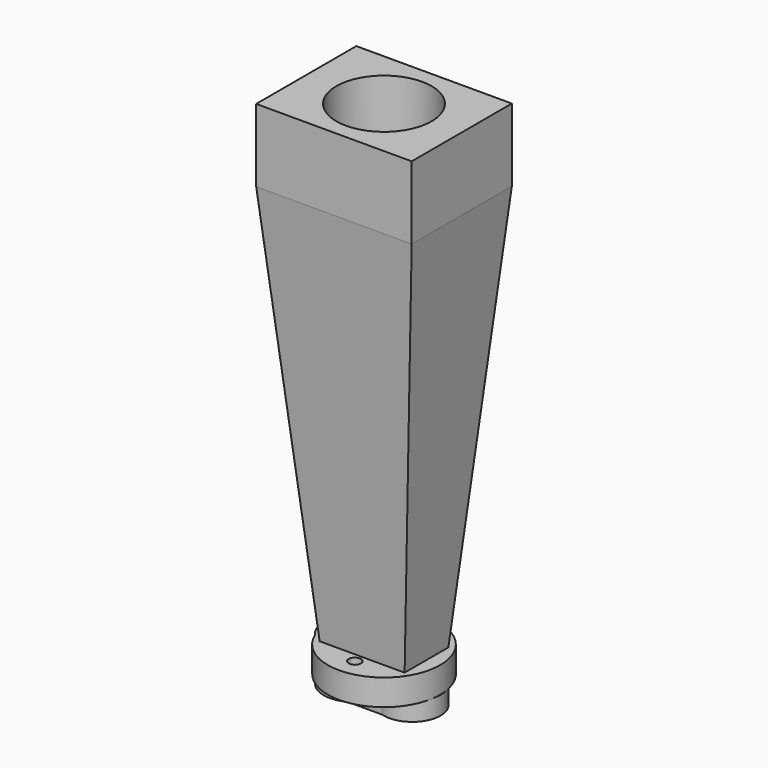
from build123d import *

# Parameters (mm, degrees)
F1_DEPTH  = 3.81
F3_DEPTH  = 5.461
F5_R      = 1.27
F6_DEPTH  = 9.272
F7_W      = 17.78
F7_H      = 11.43
F8_DEPTH  = 84.3534
F8_TAPER  = -5
F9_R      = 4.088765
F10_DEPTH = 93.6254001
F10_TAPER = -2.9356734464
F11_W     = 32.5399324597
F11_H     = 26.1899324597
F12_DEPTH = 15.24
F14_D     = 19.939
F14_DEPTH = 20.066
F14_TIP   = 5.9902799414


with BuildPart() as f1:
    # F0 (on Top) → F1 (new body)
    with BuildSketch(Plane.XY):
        with BuildLine():
            Line((4.1806183802, 5.7049052394), (-3.0799473447, 5.7049052394))
            ThreePointArc((-3.0799473447, 5.7049052394), (-12.6238, 0), (-3.0799473447, -5.7049052394))
            Line((-3.0799473447, -5.7049052394), (4.1806183802, -5.7049052394))
            ThreePointArc((4.1806183802, -5.7049052394), (11.8491, 0), (4.1806183802, 5.7049052394))
        make_face()
    extrude(amount=-F1_DEPTH)

    # F2 (on Top) → F3 (join)
    with BuildSketch(Plane.XY):
        with BuildLine():
            ThreePointArc((-10.8865895661, 4.4142863374), (-12.6238, 0), (-10.8865895661, -4.4142863374))
            ThreePointArc((-10.8865895661, -4.4142863374), (11.7475, 0), (-10.8865895661, 4.4142863374))
        make_face()
    extrude(amount=F3_DEPTH)

    # F5 (on face) → F6 (cut, through all)
    with BuildSketch(Plane.XY.offset(5.461)):
        with Locations((0, -7.62)):
            Circle(F5_R)
        with Locations((0, 7.62)):
            Circle(F5_R)
    extrude(amount=-F6_DEPTH, mode=Mode.SUBTRACT)

    # F7 (on face) → F8 (join)
    with BuildSketch(Plane.XY.offset(5.461)):
        Rectangle(F7_W, F7_H)
    extrude(amount=F8_DEPTH, taper=F8_TAPER)

    # F9 (on face) → F10 (cut, through all)
    with BuildSketch(Plane(origin=(0, 0, -3.81), x_dir=(1, 0, 0), z_dir=(0, 0, -1))):
        Circle(F9_R)
    extrude(amount=-F10_DEPTH, taper=F10_TAPER, mode=Mode.SUBTRACT)

    # F11 (on face) → F12 (join)
    with BuildSketch(Plane.XY.offset(89.8144)):
        Rectangle(F11_W, F11_H)
    extrude(amount=F12_DEPTH)

    # F14
    with Locations(Plane.XY.offset(105.0544)):
        with Locations((0, 0)):
            Hole(F14_D / 2, depth=F14_DEPTH)
            with Locations((0, 0, -(F14_DEPTH + F14_TIP / 2))):  # 118° drill point
                Cone(0, F14_D / 2, F14_TIP, mode=Mode.SUBTRACT)


solid = f1.part
